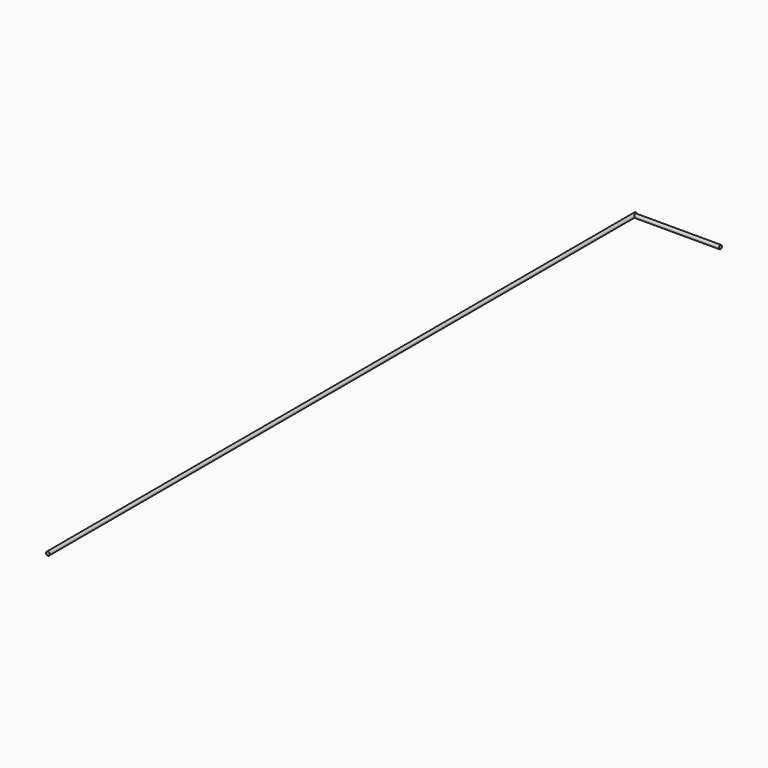
from build123d import *

# Parameters (mm, degrees)
F0_W = 596.9
F0_H = 12.7


with BuildPart() as f1:
    # F0 (on Top) → F1 (revolve)
    with BuildSketch(Plane.XY):
        Polygon((-12.7, -42.367292), (0, -42.367292), (0, 5024.932708), (0, 5037.632708), (-12.7, 5037.632708), align=None)
    revolve(axis=Axis((0, 2491.282708, 0), (0, 1, 0)))

    # F0 (on Top) → F2 (revolve)
    with BuildSketch(Plane.XY):
        with Locations((298.45, 5031.282708)):
            Rectangle(F0_W, F0_H)
    revolve(axis=Axis((298.45, 5024.932708, 0), (1, 0, 0)))


solid = f1.part
